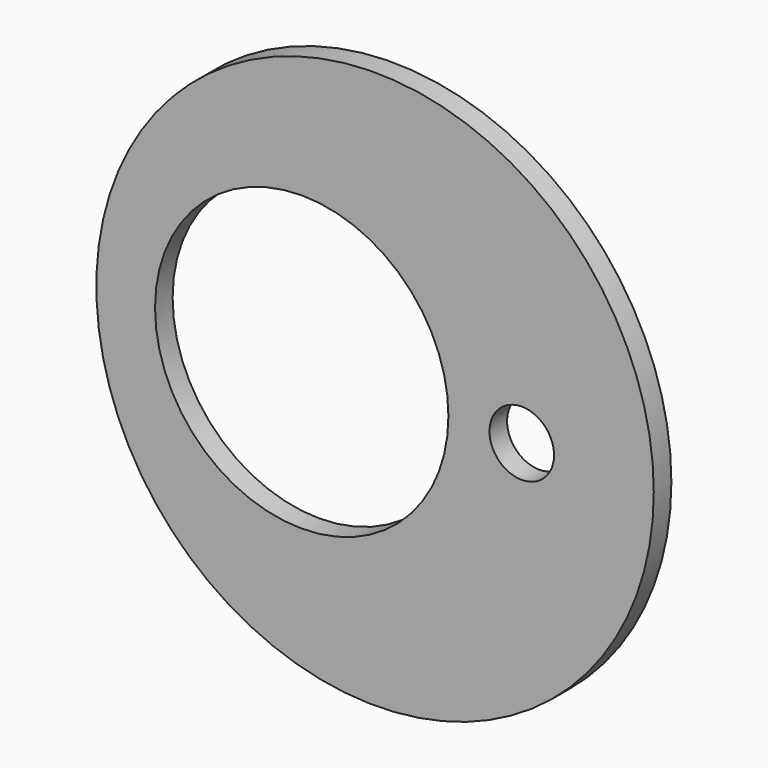
from build123d import *

# Parameters (mm, degrees)
F0_R     = 9.5
F0_R_2   = 5
F0_R_3   = 1.1
F1_DEPTH = 0.75


with BuildPart() as f1:
    # F0 (on Front) → F1 (new body)
    with BuildSketch(Plane.XZ):
        Circle(F0_R)
        with Locations((-2.5, 0)):
            Circle(F0_R_2, mode=Mode.SUBTRACT)
        with Locations((5, 0)):
            Circle(F0_R_3, mode=Mode.SUBTRACT)
    extrude(amount=F1_DEPTH)


solid = f1.part
